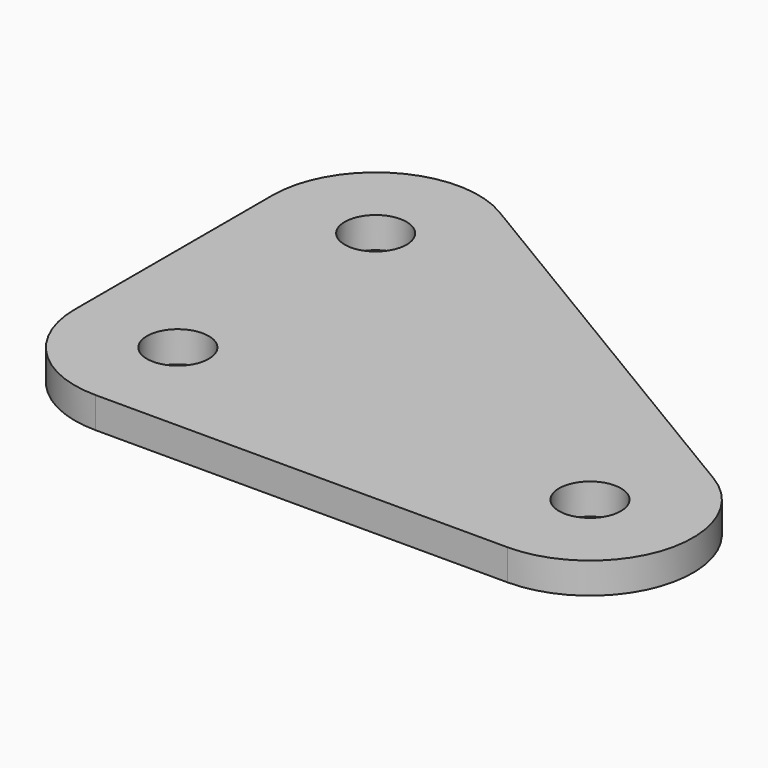
from build123d import *

# Parameters (mm, degrees)
F0_R     = 1.5
F1_DEPTH = 1.5


with BuildPart() as f1:
    # F0 (on Top) → F1 (new body)
    with BuildSketch(Plane.XY):
        with BuildLine():
            Line((0, 17), (0, 5))
            ThreePointArc((0, 5), (1.464466, 1.464466), (5, 0))
            Line((5, 0), (25, 0))
            ThreePointArc((25, 0), (29.818575, 3.665332), (27.572479, 9.287465))
            Line((27.572479, 9.287465), (7.572479, 21.287465))
            ThreePointArc((7.572479, 21.287465), (2.536506, 21.351), (0, 17))
        make_face()
        with Locations((5, 5)):
            Circle(F0_R, mode=Mode.SUBTRACT)
        with Locations((25, 5)):
            Circle(F0_R, mode=Mode.SUBTRACT)
        with Locations((5, 17)):
            Circle(F0_R, mode=Mode.SUBTRACT)
    extrude(amount=F1_DEPTH)


solid = f1.part
